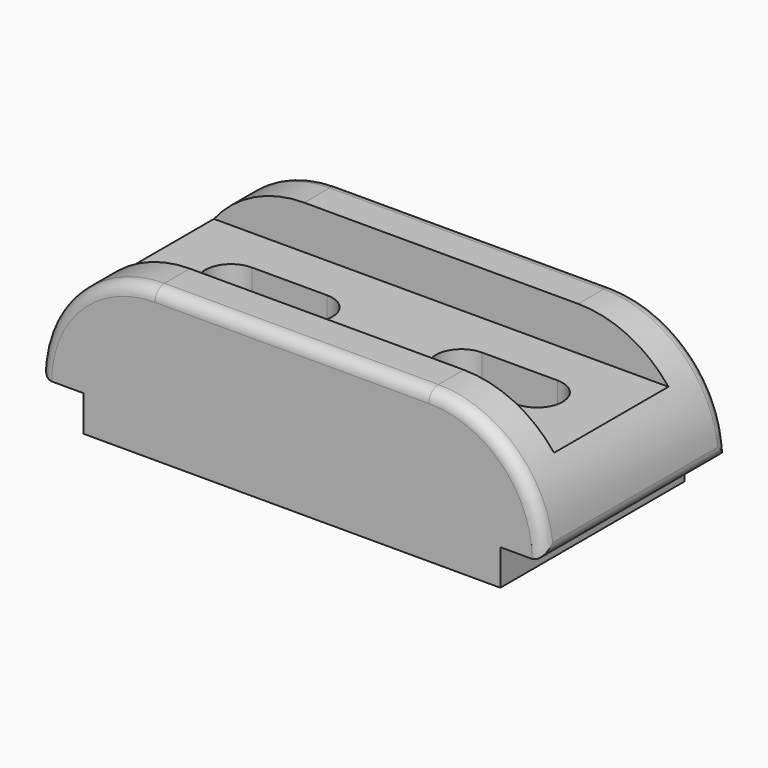
from build123d import *

# Parameters (mm, degrees)
F1_DEPTH = 58
F3_W     = 36
F3_H     = 11
F4_DEPTH = 127
F6_DEPTH = 38
F7_R     = 3


with BuildPart() as f1:
    # F0 (on Front) → F1 (new body)
    with BuildSketch(Plane.XZ):
        with BuildLine():
            Line((0, 9), (0, 0))
            Line((0, 0), (105, 0))
            Line((105, 0), (105, 9))
            Line((105, 9), (116, 9))
            ThreePointArc((116, 9), (107.506097, 29.506097), (87, 38))
            Line((87, 38), (18, 38))
            ThreePointArc((18, 38), (-2.506097, 29.506097), (-11, 9))
            Line((-11, 9), (0, 9))
        make_face()
    extrude(amount=-F1_DEPTH)

    # F3 (on offset) → F4 (cut)
    with BuildSketch(Plane.YZ.offset(-11)):
        with Locations((29, 32.5)):
            Rectangle(F3_W, F3_H)
    extrude(amount=F4_DEPTH, mode=Mode.SUBTRACT)

    # F5 (on face) → F6 (cut)
    with BuildSketch(Plane.XY.offset(27)):
        with BuildLine():
            Line((33, 35.5), (14, 35.5))
            ThreePointArc((14, 35.5), (7.5, 29), (14, 22.5))
            Line((14, 22.5), (33, 22.5))
            ThreePointArc((33, 22.5), (39.5, 29), (33, 35.5))
        make_face()
        with BuildLine():
            Line((72, 22.5), (91, 22.5))
            ThreePointArc((91, 22.5), (97.5, 29), (91, 35.5))
            Line((91, 35.5), (72, 35.5))
            ThreePointArc((72, 35.5), (65.5, 29), (72, 22.5))
        make_face()
    extrude(amount=-F6_DEPTH, mode=Mode.SUBTRACT)

    # F7
    f7_edges = [f1.edges().sort_by_distance(p)[0] for p in [
        (107.506097, 0, 29.506097),
        (116, 29, 9),
        (107.506097, 58, 29.506097),
        (-11, 29, 9),
    ]]
    fillet(f7_edges, radius=F7_R)


solid = f1.part
